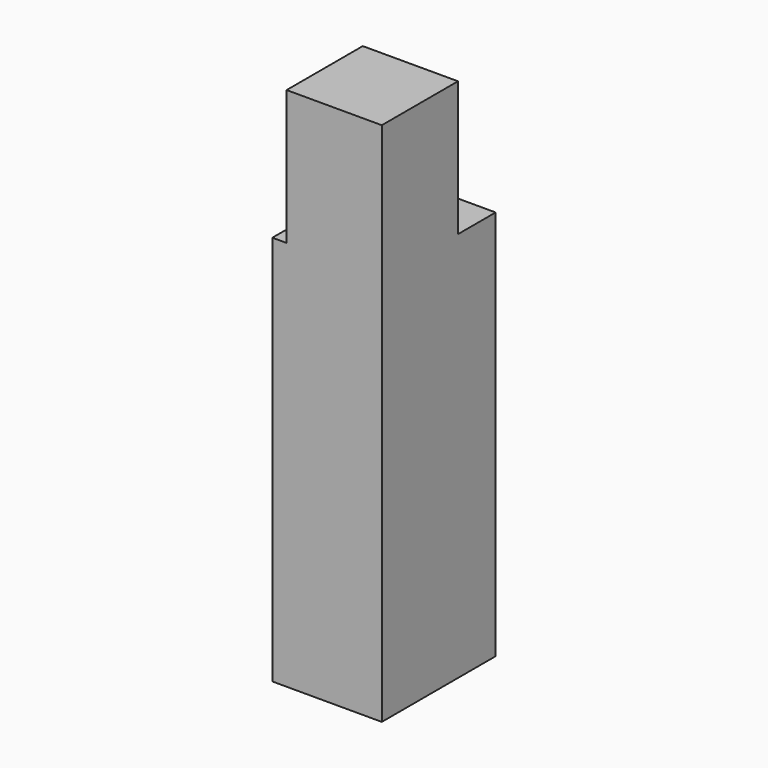
from build123d import *

# Parameters (mm, degrees)
F0_W     = 100
F0_H     = 130
F1_DEPTH = 480
F2_W     = 87
F2_H     = 43
F2_W_2   = 13
F2_H_2   = 87
F3_DEPTH = 123


with BuildPart() as f1:
    # F0 (on Top) → F1 (new body)
    with BuildSketch(Plane.XY):
        Rectangle(F0_W, F0_H)
    extrude(amount=F1_DEPTH)

    # F2 (on face) → F3 (cut)
    with BuildSketch(Plane.XY.offset(480)):
        with Locations((6.5, 43.5)):
            Rectangle(F2_W, F2_H)
        with Locations((-43.5, 43.5)):
            Rectangle(F2_W_2, F2_H)
        with Locations((-43.5, -21.5)):
            Rectangle(F2_W_2, F2_H_2)
    extrude(amount=-F3_DEPTH, mode=Mode.SUBTRACT)


solid = f1.part
